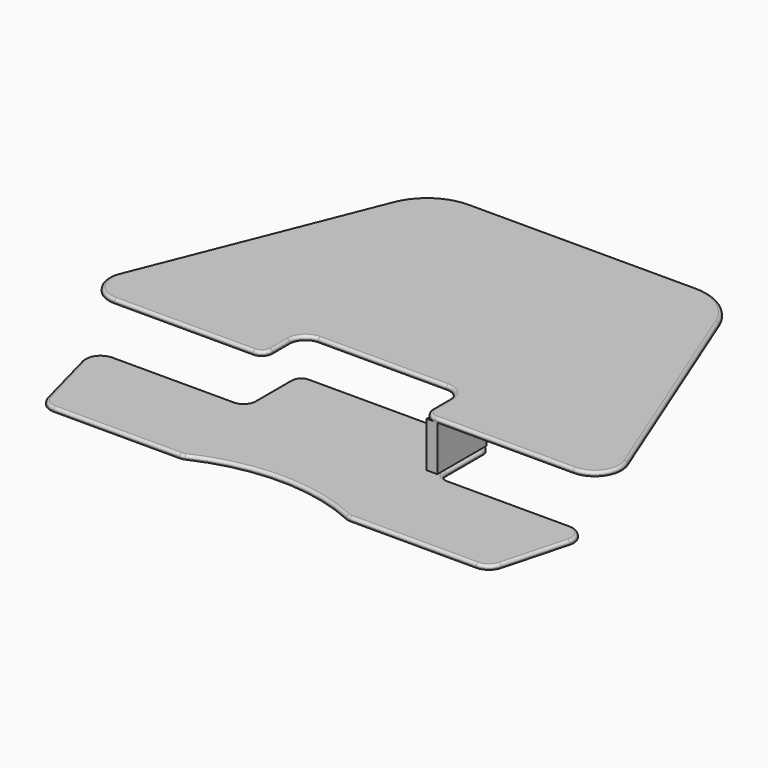
from build123d import *

# Parameters (mm, degrees)
F3_DEPTH  = 9.525
F4_R      = 38.1
F5_R      = 25.4
F6_R      = 127
F7_R      = 6.35
F8_DEPTH  = 9.525
F9_R      = 6.35
F10_W     = 25.4
F10_H     = 146.05
F11_DEPTH = 107.95


with BuildPart() as f3:
    # F0 (on Top) → F3 (new body)
    with BuildSketch(Plane.XY):
        with BuildLine():
            Line((-190.5, 0), (-190.5, 114.3))
            Line((-190.5, 114.3), (190.5, 114.3))
            Line((190.5, 114.3), (190.5, 0))
            Line((190.5, 0), (546.1, 0))
            ThreePointArc((546.1, 0), (598.677636, 27.893228), (605.064406, 87.067962))
            Line((605.064406, 87.067962), (355.6, 711.2))
            Line((355.6, 711.2), (-355.6, 711.2))
            Line((-355.6, 711.2), (-605.064406, 87.067962))
            ThreePointArc((-605.064406, 87.067962), (-598.677636, 27.893228), (-546.1, 0))
            Line((-546.1, 0), (-190.5, 0))
        make_face()
    extrude(amount=F3_DEPTH)

    # F4
    f4_edges = [f3.edges().sort_by_distance(p)[0] for p in [
        (-190.5, 114.3, 4.7625),
        (190.5, 114.3, 4.7625),
    ]]
    fillet(f4_edges, radius=F4_R)

    # F5
    f5_edges = [f3.edges().sort_by_distance(p)[0] for p in [
        (-190.5, 0, 4.7625),
        (190.5, 0, 4.7625),
    ]]
    fillet(f5_edges, radius=F5_R)

    # F6
    f6_edges = [f3.edges().sort_by_distance(p)[0] for p in [
        (355.6, 711.2, 4.7625),
        (-355.6, 711.2, 4.7625),
    ]]
    fillet(f6_edges, radius=F6_R)

    # F7
    f7_edges = [f3.edges().sort_by_distance(p)[0] for p in [
        (-496.292963, 359.201944, 9.525),
        (-340.806253, 689.355272, 9.525),
        (-598.677636, 27.893228, 9.525),
        (0, 711.2, 9.525),
        (-381, 0, 9.525),
        (340.806253, 689.355272, 9.525),
        (-197.939488, 7.439488, 9.525),
        (496.292963, 359.201944, 9.525),
        (-190.5, 50.8, 9.525),
        (598.677636, 27.893228, 9.525),
        (-179.340768, 103.140768, 9.525),
        (381, 0, 9.525),
        (0, 114.3, 9.525),
        (197.939488, 7.439488, 9.525),
        (179.340768, 103.140768, 9.525),
        (190.5, 50.8, 9.525),
    ]]
    fillet(f7_edges, radius=F7_R)


with BuildPart() as f8:
    # F2 (on offset) → F8 (new body)
    with BuildSketch(Plane.XY.offset(-107.95)):
        with BuildLine():
            Line((-254, -6.35), (-543.4709, -6.35))
            ThreePointArc((-543.4709, -6.35), (-573.697662, -21.25619), (-580.272674, -54.311006))
            Line((-580.272674, -54.311006), (-539.437217, -206.711006))
            ThreePointArc((-539.437217, -206.711006), (-525.829253, -227.076762), (-502.635443, -234.95))
            Line((-502.635443, -234.95), (-202.30506, -234.95))
            ThreePointArc((-202.30506, -234.95), (-196.854252, -234.358238), (-191.657426, -232.610526))
            ThreePointArc((-191.657426, -232.610526), (0, -190.5), (191.657426, -232.610526))
            ThreePointArc((191.657426, -232.610526), (196.854252, -234.358238), (202.30506, -234.95))
            Line((202.30506, -234.95), (502.635443, -234.95))
            ThreePointArc((502.635443, -234.95), (525.829253, -227.076762), (539.437217, -206.711006))
            Line((539.437217, -206.711006), (580.272674, -54.311006))
            ThreePointArc((580.272674, -54.311006), (573.697662, -21.25619), (543.4709, -6.35))
            Line((543.4709, -6.35), (254, -6.35))
            ThreePointArc((254, -6.35), (236.039488, 1.089488), (228.6, 19.05))
            Line((228.6, 19.05), (228.6, 127))
            ThreePointArc((228.6, 127), (221.160512, 144.960512), (203.2, 152.4))
            Line((203.2, 152.4), (-203.2, 152.4))
            ThreePointArc((-203.2, 152.4), (-221.160512, 144.960512), (-228.6, 127))
            Line((-228.6, 127), (-228.6, 19.05))
            ThreePointArc((-228.6, 19.05), (-236.039488, 1.089488), (-254, -6.35))
        make_face()
    extrude(amount=-F8_DEPTH)

    # F9
    f9_edges = [f8.edges().sort_by_distance(p)[0] for p in [
        (196.854252, -234.358238, -107.95),
        (352.470252, -234.95, -107.95),
        (525.829253, -227.076762, -107.95),
        (559.854945, -130.511006, -107.95),
        (573.697662, -21.25619, -107.95),
        (398.73545, -6.35, -107.95),
        (236.039488, 1.089488, -107.95),
        (228.6, 73.025, -107.95),
        (221.160512, 144.960512, -107.95),
        (0, 152.4, -107.95),
        (-221.160512, 144.960512, -107.95),
        (-228.6, 73.025, -107.95),
        (-236.039488, 1.089488, -107.95),
        (-398.73545, -6.35, -107.95),
        (-573.697662, -21.25619, -107.95),
        (-559.854945, -130.511006, -107.95),
        (-525.829253, -227.076762, -107.95),
        (-352.470252, -234.95, -107.95),
        (-196.854252, -234.358238, -107.95),
        (0, -190.5, -107.95),
    ]]
    fillet(f9_edges, radius=F9_R)


with BuildPart() as f11:
    # F10 (on face) → F11 (new body, through all)
    with BuildSketch(Plane.XY.offset(-107.95)):
        with Locations((209.55, 73.025)):
            Rectangle(F10_W, F10_H)
    extrude(amount=F11_DEPTH)


solid = Compound([f3.part, f8.part, f11.part])
